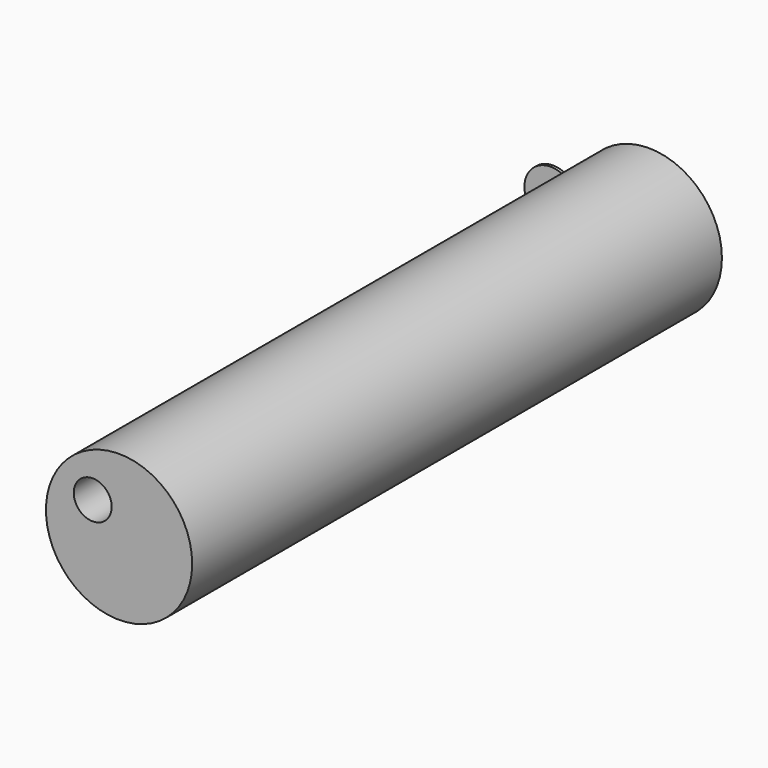
from build123d import *

# Parameters (mm, degrees)
F0_R     = 635
F0_R_2   = 164.828669
F1_DEPTH = 5750.56
F3_DEPTH = 25.4
F4_DEPTH = 25.4


with BuildPart() as f1:
    # F0 (on Front) → F1 (new body)
    with BuildSketch(Plane.XZ):
        with Locations((-90.997033, 22.908866)):
            Circle(F0_R)
        with Locations((-319.747567, 231.297463)):
            Circle(F0_R_2, mode=Mode.SUBTRACT)
    extrude(amount=F1_DEPTH)

    # F2 (on face) → F3 (join)
    with BuildSketch(Plane(origin=(0, 0, 0), x_dir=(-1, 0, 0), z_dir=(0, 1, 0))):
        with BuildLine():
            ThreePointArc((725.997033, 22.908866), (725.485896, 48.382032), (723.95331, 73.814188))
            ThreePointArc((723.95331, 73.814188), (714.818339, 13.302789), (722.085819, -47.461187))
            ThreePointArc((722.085819, -47.461187), (725.018475, -12.330466), (725.997033, 22.908866))
        make_face()
        with BuildLine():
            ThreePointArc((722.085819, -47.461187), (971.94435, -216.678506), (1171.385667, 9.787711))
            ThreePointArc((1171.385667, 9.787711), (975.427816, 235.782791), (723.95331, 73.814188))
            ThreePointArc((723.95331, 73.814188), (725.485896, 48.382032), (725.997033, 22.908866))
            ThreePointArc((725.997033, 22.908866), (725.018475, -12.330466), (722.085819, -47.461187))
        make_face()
    extrude(amount=F3_DEPTH)

    # F0 (on Front) → F4 (join)
    with BuildSketch(Plane.XZ):
        with Locations((-90.997033, 22.908866)):
            Circle(F0_R)
        with Locations((-319.747567, 231.297463)):
            Circle(F0_R_2, mode=Mode.SUBTRACT)
    extrude(amount=F4_DEPTH)


solid = f1.part
